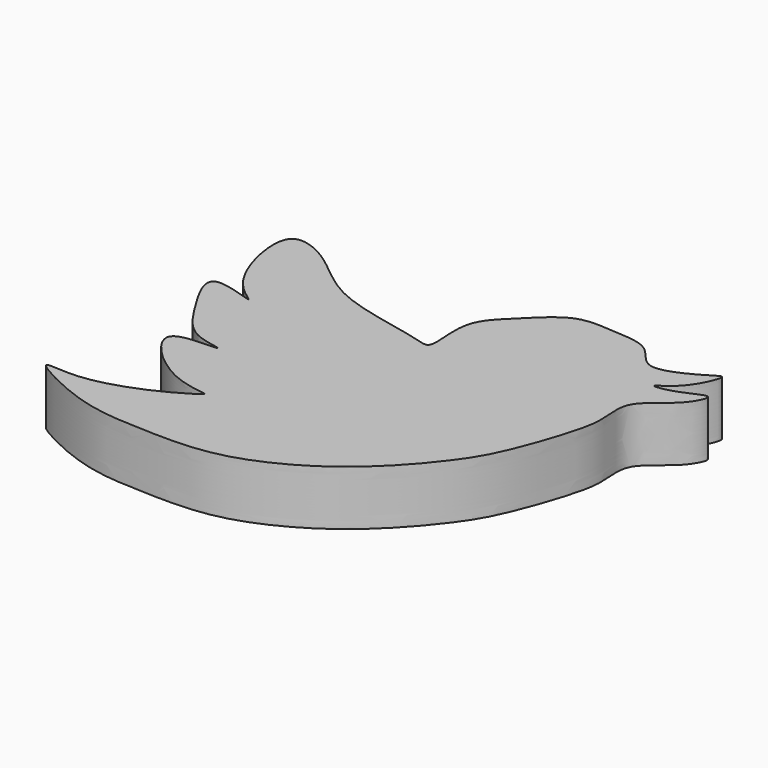
from build123d import *

# Parameters (mm, degrees)
F1_DEPTH = 5


with BuildPart() as f1:
    # F0 (on Top) → F1 (new body)
    with BuildSketch(Plane.XY):
        with BuildLine():
            add(Edge.make_bspline(
                [(-56.7661225796, -1.0849640239), (-57.1814293265, -1.9046358585), (-56.8011102519, -4.000297388), (-57.2018669765, -6.6064055908), (-59.3326579772, -12.8702131633), (-61.3310866502, -15.7368333765), (-63.4278682755, -18.3371906817), (-67.439531941, -22.2669488805), (-74.027647249, -25.6355460262), (-79.4327474806, -25.8113278936), (-82.6323052828, -25.65977655), (-87.5349181875, -25.4470713476), (-94.810013667, -21.6395108036), (-89.7644129654, -22.6979016132), (-84.0225351925, -20.5074551695), (-81.671023996, -18.9342108505), (-81.1074257346, -18.5590056763), (-85.1516317168, -18.650317825), (-91.30547418, -12.4215791317), (-85.5849657471, -12.7768791005), (-84.7960439187, -12.5236960815), (-87.9626108672, -12.2659049912), (-90.0034628781, -9.2670273358), (-93.6391359604, -3.2506744766), (-87.0290871427, -5.9444298468), (-89.5050583772, -4.4728720081), (-91.5830701741, -1.5832276573), (-92.6167393114, 5.0216749948), (-87.5623292005, 3.1295457959), (-83.8388215885, -1.1946720003), (-75.8095680916, -2.3031475069), (-73.6538464018, -3.2235502692), (-73.4421985683, -1.9167485747), (-74.0144423022, 1.8003676525), (-71.2296239788, 4.2726620789), (-68.3283174847, 7.3758421819), (-64.7227151479, 6.9390268759), (-61.148270496, 6.8939348946), (-59.6815497135, 3.317914283), (-55.2599372022, 5.8842791562), (-53.8900591937, 6.7826233802), (-55.3632638863, 3.2260948843), (-58.1045405122, 1.9828714681), (-55.2956338408, 2.3826717807), (-52.5282143606, 4.0786844177), (-54.0386899837, 0.9867616645), (-56.2854701416, -0.1363224028), (-56.7661225796, -1.0849640239)],
                knots=[0, 0, 0, 0, 0.0201992379, 0.0404674313, 0.071455425, 0.094402904, 0.1159796279, 0.1447141756, 0.1779513076, 0.2057058501, 0.2268880296, 0.2554856655, 0.2842422512, 0.3037240078, 0.335615577, 0.3554360793, 0.360846398, 0.3835129977, 0.4134885662, 0.4361347075, 0.4432219574, 0.4611476536, 0.4868202092, 0.5118886995, 0.5349795898, 0.5476942123, 0.5727475823, 0.5996785287, 0.6219031607, 0.6520886222, 0.6864398577, 0.7025585703, 0.7139117413, 0.7366637034, 0.759832509, 0.7841104611, 0.8067227195, 0.8287950911, 0.8491935297, 0.8749109887, 0.8857691739, 0.9072828323, 0.9242792132, 0.9408135181, 0.9593217617, 0.9766225494, 1, 1, 1, 1], degree=3))
        make_face()
    extrude(amount=F1_DEPTH)


solid = f1.part
